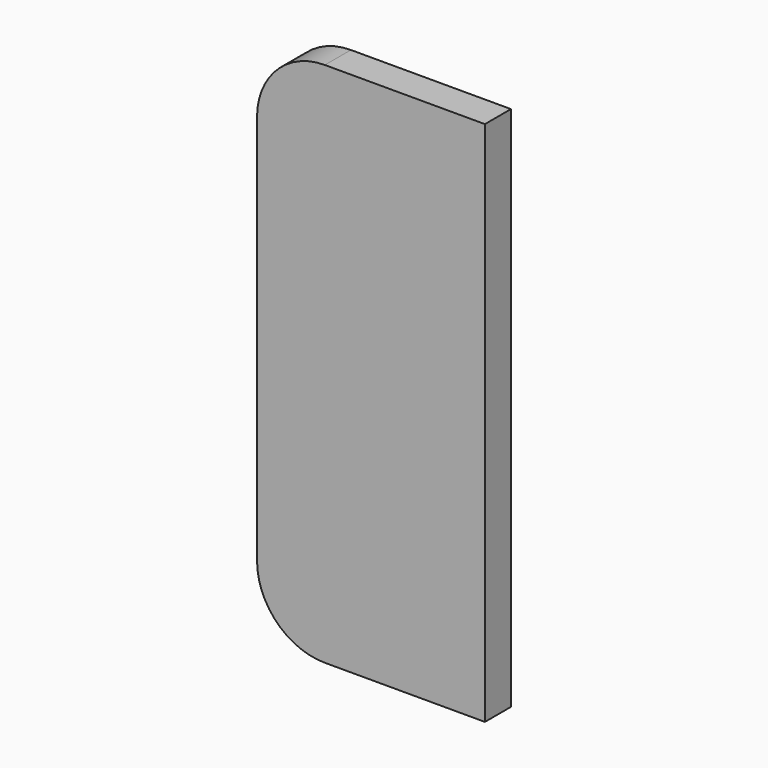
from build123d import *

# Parameters (mm, degrees)
F1_DEPTH = 6


with BuildPart() as f1:
    # F0 (on Front) → F1 (new body)
    with BuildSketch(Plane.XZ):
        with BuildLine():
            Line((21, -48.5), (21, 48.5))
            Line((21, 48.5), (-8.5, 48.5))
            ThreePointArc((-8.5, 48.5), (-17.338835, 44.838835), (-21, 36))
            Line((-21, 36), (-21, -36))
            ThreePointArc((-21, -36), (-17.338835, -44.838835), (-8.5, -48.5))
            Line((-8.5, -48.5), (21, -48.5))
        make_face()
    extrude(amount=F1_DEPTH)


solid = f1.part
